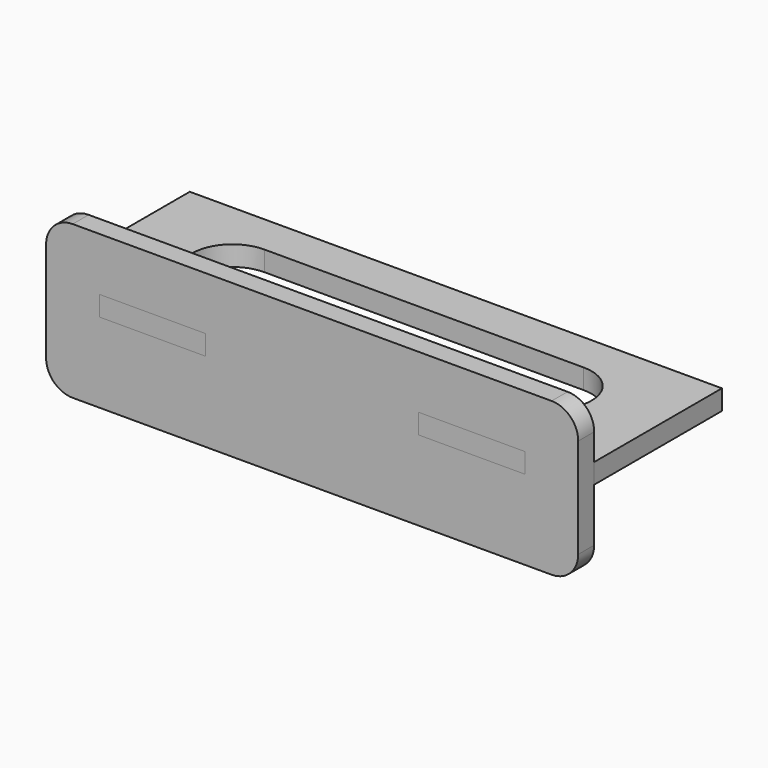
from build123d import *

# Parameters (mm, degrees)
F1_DEPTH = 4.7625
F2_W     = 50.8
F2_H     = 4.7625
F3_DEPTH = 4.7625


with BuildPart() as f1:
    # F0 (on Top) → F1 (new body)
    with BuildSketch(Plane.XY):
        Polygon((25.4, 19.05), (-101.6, 19.05), (-101.6, -19.05), (-88.9, -19.05), (-88.9, -23.8125), (-63.5, -23.8125), (-63.5, -19.05), (-12.7, -19.05), (-12.7, -23.8125), (12.7, -23.8125), (12.7, -19.05), (25.4, -19.05), align=None)
        with BuildLine():
            ThreePointArc((-76.2, -9.525), (-85.725, 0), (-76.2, 9.525))
            Line((-76.2, 9.525), (0, 9.525))
            ThreePointArc((0, 9.525), (9.525, 0), (0, -9.525))
            Line((0, -9.525), (-76.2, -9.525))
        make_face(mode=Mode.SUBTRACT)
    extrude(amount=F1_DEPTH)


with BuildPart() as f3:
    # F2 (on face) → F3 (new body)
    with BuildSketch(Plane.XZ.offset(19.05)):
        with BuildLine():
            ThreePointArc((-95.25, 17.4625), (-99.7401280605, 15.6026280605), (-101.6, 11.1125))
            Line((-101.6, 11.1125), (-101.6, -12.7))
            ThreePointArc((-101.6, -12.7), (-99.7401280605, -17.1901280605), (-95.25, -19.05))
            Line((-95.25, -19.05), (19.05, -19.05))
            ThreePointArc((19.05, -19.05), (23.5401280605, -17.1901280605), (25.4, -12.7))
            Line((25.4, -12.7), (25.4, 11.1125))
            ThreePointArc((25.4, 11.1125), (23.5401280605, 15.6026280605), (19.05, 17.4625))
            Line((19.05, 17.4625), (-95.25, 17.4625))
        make_face()
        Polygon((-63.5, 0), (-88.9, 0), (-88.9, 4.7625), (-63.5, 4.7625), (-12.7, 4.7625), (12.7, 4.7625), (12.7, 0), (-12.7, 0), align=None, mode=Mode.SUBTRACT)
        with Locations((-38.1, 2.38125)):
            Rectangle(F2_W, F2_H)
    extrude(amount=F3_DEPTH)


solid = Compound([f1.part, f3.part])
